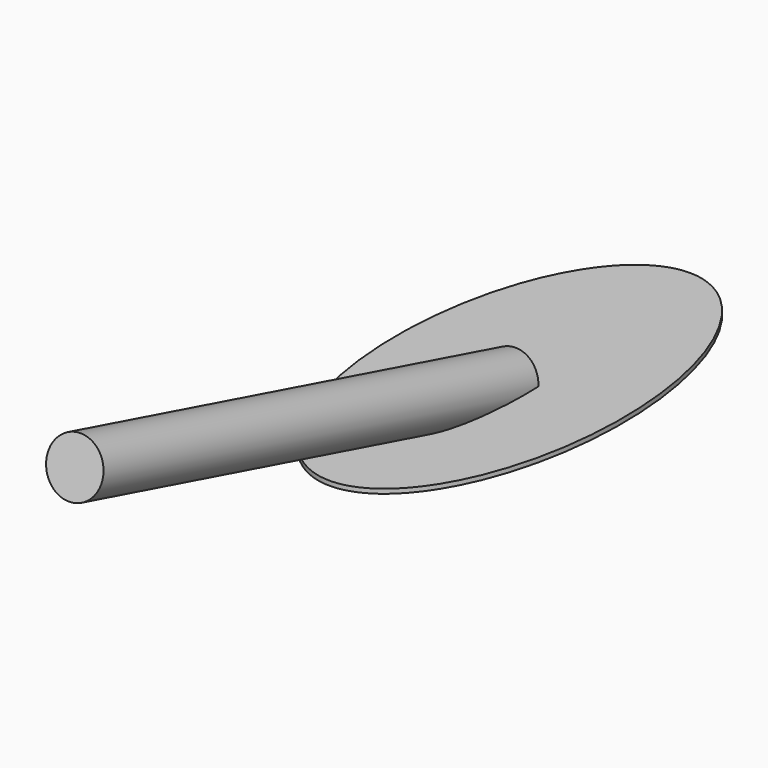
from build123d import *

# Parameters (mm, degrees)
F1_DEPTH = 0.508
F3_R     = 3.175
F4_DEPTH = 63.5


with BuildPart() as f1:
    # F0 (on Top) → F1 (new body)
    with BuildSketch(Plane.XY):
        with BuildLine():
            add(Edge.make_bspline(
                [(0, 25.4), (-21.997045, 25.4), (-10.998523, -12.7), (0, -50.8), (10.998523, -12.7), (21.997045, 25.4), (0, 25.4)],
                knots=[0, 0, 0, 2.094395, 2.094395, 4.18879, 4.18879, 6.283185, 6.283185, 6.283185], degree=2, weights=[1, 0.5, 1, 0.5, 1, 0.5, 1]))
        make_face()
    extrude(amount=F1_DEPTH)

    # F3 (on face) → F4 (join)
    with BuildSketch(Plane(origin=(0, 0, 0), x_dir=(-1, 0, 0), z_dir=(0, 0.965926, -0.258819))):
        Circle(F3_R)
    extrude(amount=-F4_DEPTH)


solid = f1.part
